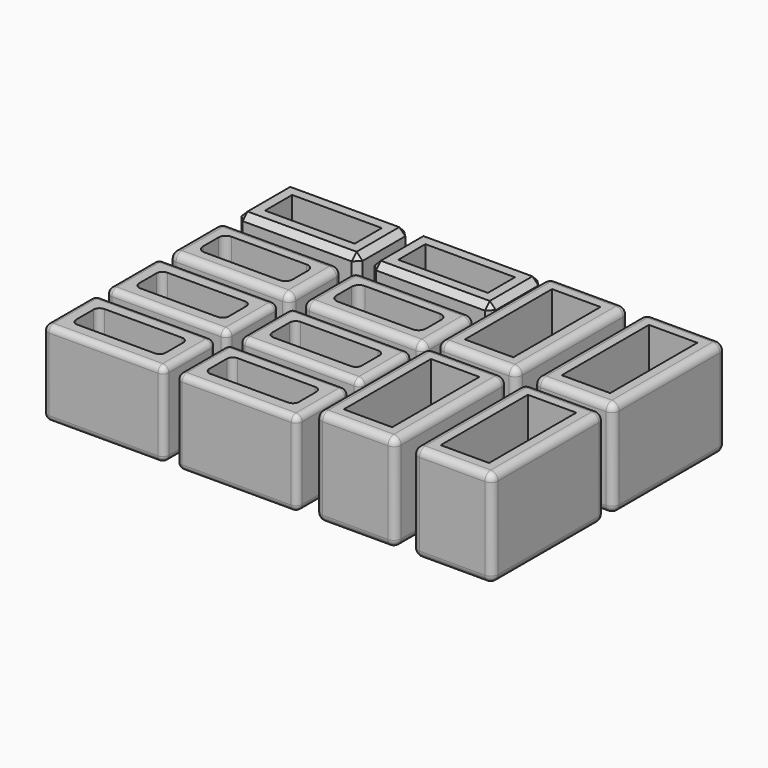
from build123d import *

# Parameters (mm, degrees)
BOX_W           = 10
BOX_H           = 5.4
BOX_DEPTH       = 7
SKETCH_W        = 7.4
SKETCH_H        = 2.8
POCKET_DEPTH    = 7.001
FILLET_R        = 0.5
BOX003_W        = 10
BOX003_H        = 5.4
BOX003_DEPTH    = 7
SKETCH003_W     = 7.4
SKETCH003_H     = 2.8
POCKET003_DEPTH = 7.001
FILLET003_R     = 0.5
BOX004_W        = 10
BOX004_H        = 5.4
BOX004_DEPTH    = 7
SKETCH004_W     = 7.4
SKETCH004_H     = 2.8
POCKET004_DEPTH = 7.001
FILLET004_R     = 0.6
BOX005_W        = 10
BOX005_H        = 5.4
BOX005_DEPTH    = 7
SKETCH005_W     = 7.4
SKETCH005_H     = 2.8
POCKET005_DEPTH = 7.001
FILLET005_R     = 0.6
BOX002_W        = 10
BOX002_H        = 5.4
BOX002_DEPTH    = 7
SKETCH002_W     = 7.4
SKETCH002_H     = 2.8
POCKET002_DEPTH = 7.001
FILLET002_R     = 0.5
BOX001_W        = 10
BOX001_H        = 5.4
BOX001_DEPTH    = 7
SKETCH001_W     = 7.4
SKETCH001_H     = 2.8
POCKET001_DEPTH = 7.001
FILLET001_R     = 0.5
BOX006_W        = 10
BOX006_H        = 5.4
BOX006_DEPTH    = 7
SKETCH006_W     = 7.4
SKETCH006_H     = 2.8
POCKET006_DEPTH = 7.001
CHAMFER_SIZE    = 0.5
BOX007_W        = 10
BOX007_H        = 5.4
BOX007_DEPTH    = 7
SKETCH007_W     = 7.4
SKETCH007_H     = 2.8
POCKET007_DEPTH = 7.001
CHAMFER001_SIZE = 0.5
BOX008_W        = 6.6
BOX008_H        = 11.6
BOX008_DEPTH    = 8
SKETCH008_W     = 4
SKETCH008_H     = 9
POCKET008_DEPTH = 8.001
FILLET006_R     = 0.6
BOX009_W        = 6.6
BOX009_H        = 11.6
BOX009_DEPTH    = 8
SKETCH009_W     = 4
SKETCH009_H     = 9
POCKET009_DEPTH = 8.001
FILLET007_R     = 0.6
BOX010_W        = 6.6
BOX010_H        = 11.6
BOX010_DEPTH    = 8
SKETCH010_W     = 4
SKETCH010_H     = 9
POCKET010_DEPTH = 8.001
FILLET008_R     = 0.6
BOX011_W        = 6.6
BOX011_H        = 11.6
BOX011_DEPTH    = 8
SKETCH011_W     = 4
SKETCH011_H     = 9
POCKET011_DEPTH = 8.001
FILLET009_R     = 0.6


with BuildPart() as fillet000:
    # Box → Box (new body)
    with BuildSketch(Plane.XY):
        with Locations((5, 2.7)):
            Rectangle(BOX_W, BOX_H)
    extrude(amount=BOX_DEPTH)

    # Sketch → Pocket (cut, through all)
    with BuildSketch(Plane.XY):
        with Locations((5, 2.7)):
            Rectangle(SKETCH_W, SKETCH_H)
    extrude(amount=POCKET_DEPTH, mode=Mode.SUBTRACT)

    # Fillet
    fillet_edges = [fillet000.edges().sort_by_distance(p)[0] for p in [
        (0, 0, 3.5),
        (0, 2.7, 7),
        (0, 5.4, 3.5),
        (0, 2.7, 0),
        (5, 0, 0),
        (10, 0, 3.5),
        (5, 0, 7),
        (5, 5.4, 7),
        (10, 2.7, 7),
        (5, 5.4, 0),
        (10, 5.4, 3.5),
        (10, 2.7, 0),
        (8.7, 4.1, 3.5),
        (8.7, 1.3, 3.5),
        (1.3, 4.1, 3.5),
        (1.3, 1.3, 3.5),
    ]]
    fillet(fillet_edges, radius=FILLET_R)


with BuildPart() as fillet003:
    # Box003 → Box003 (new body)
    with BuildSketch(Plane.XY):
        with Locations((5, 2.7)):
            Rectangle(BOX003_W, BOX003_H)
    extrude(amount=BOX003_DEPTH)

    # Sketch003 → Pocket003 (cut, through all)
    with BuildSketch(Plane.XY):
        with Locations((5, 2.7)):
            Rectangle(SKETCH003_W, SKETCH003_H)
    extrude(amount=POCKET003_DEPTH, mode=Mode.SUBTRACT)

    # Fillet003
    fillet003_edges = [fillet003.edges().sort_by_distance(p)[0] for p in [
        (0, 0, 3.5),
        (0, 2.7, 7),
        (0, 5.4, 3.5),
        (0, 2.7, 0),
        (5, 0, 0),
        (10, 0, 3.5),
        (5, 0, 7),
        (5, 5.4, 7),
        (10, 2.7, 7),
        (5, 5.4, 0),
        (10, 5.4, 3.5),
        (10, 2.7, 0),
        (8.7, 4.1, 3.5),
        (8.7, 1.3, 3.5),
        (1.3, 4.1, 3.5),
        (1.3, 1.3, 3.5),
    ]]
    fillet(fillet003_edges, radius=FILLET003_R)


with BuildPart() as fillet003_1:
    # Fillet003 placement: moved
    add(fillet003.part.moved(Location((11, 6.5, 0))))


with BuildPart() as fillet004:
    # Box004 → Box004 (new body)
    with BuildSketch(Plane.XY):
        with Locations((5, 2.7)):
            Rectangle(BOX004_W, BOX004_H)
    extrude(amount=BOX004_DEPTH)

    # Sketch004 → Pocket004 (cut, through all)
    with BuildSketch(Plane.XY):
        with Locations((5, 2.7)):
            Rectangle(SKETCH004_W, SKETCH004_H)
    extrude(amount=POCKET004_DEPTH, mode=Mode.SUBTRACT)

    # Fillet004
    fillet004_edges = [fillet004.edges().sort_by_distance(p)[0] for p in [
        (0, 0, 3.5),
        (0, 2.7, 7),
        (0, 5.4, 3.5),
        (0, 2.7, 0),
        (5, 0, 0),
        (10, 0, 3.5),
        (5, 0, 7),
        (5, 5.4, 7),
        (10, 2.7, 7),
        (5, 5.4, 0),
        (10, 5.4, 3.5),
        (10, 2.7, 0),
        (8.7, 4.1, 3.5),
        (8.7, 1.3, 3.5),
        (1.3, 4.1, 3.5),
        (1.3, 1.3, 3.5),
    ]]
    fillet(fillet004_edges, radius=FILLET004_R)


with BuildPart() as fillet004_1:
    # Fillet004 placement: moved
    add(fillet004.part.moved(Location((0, 13, 0))))


with BuildPart() as fillet005:
    # Box005 → Box005 (new body)
    with BuildSketch(Plane.XY):
        with Locations((5, 2.7)):
            Rectangle(BOX005_W, BOX005_H)
    extrude(amount=BOX005_DEPTH)

    # Sketch005 → Pocket005 (cut, through all)
    with BuildSketch(Plane.XY):
        with Locations((5, 2.7)):
            Rectangle(SKETCH005_W, SKETCH005_H)
    extrude(amount=POCKET005_DEPTH, mode=Mode.SUBTRACT)

    # Fillet005
    fillet005_edges = [fillet005.edges().sort_by_distance(p)[0] for p in [
        (0, 0, 3.5),
        (0, 2.7, 7),
        (0, 5.4, 3.5),
        (0, 2.7, 0),
        (5, 0, 0),
        (10, 0, 3.5),
        (5, 0, 7),
        (5, 5.4, 7),
        (10, 2.7, 7),
        (5, 5.4, 0),
        (10, 5.4, 3.5),
        (10, 2.7, 0),
        (8.7, 4.1, 3.5),
        (8.7, 1.3, 3.5),
        (1.3, 4.1, 3.5),
        (1.3, 1.3, 3.5),
    ]]
    fillet(fillet005_edges, radius=FILLET005_R)


with BuildPart() as fillet005_1:
    # Fillet005 placement: moved
    add(fillet005.part.moved(Location((11, 13, 0))))


with BuildPart() as fillet002:
    # Box002 → Box002 (new body)
    with BuildSketch(Plane.XY):
        with Locations((5, 2.7)):
            Rectangle(BOX002_W, BOX002_H)
    extrude(amount=BOX002_DEPTH)

    # Sketch002 → Pocket002 (cut, through all)
    with BuildSketch(Plane.XY):
        with Locations((5, 2.7)):
            Rectangle(SKETCH002_W, SKETCH002_H)
    extrude(amount=POCKET002_DEPTH, mode=Mode.SUBTRACT)

    # Fillet002
    fillet002_edges = [fillet002.edges().sort_by_distance(p)[0] for p in [
        (0, 0, 3.5),
        (0, 2.7, 7),
        (0, 5.4, 3.5),
        (0, 2.7, 0),
        (5, 0, 0),
        (10, 0, 3.5),
        (5, 0, 7),
        (5, 5.4, 7),
        (10, 2.7, 7),
        (5, 5.4, 0),
        (10, 5.4, 3.5),
        (10, 2.7, 0),
        (8.7, 4.1, 3.5),
        (8.7, 1.3, 3.5),
        (1.3, 4.1, 3.5),
        (1.3, 1.3, 3.5),
    ]]
    fillet(fillet002_edges, radius=FILLET002_R)


with BuildPart() as fillet002_1:
    # Fillet002 placement: moved
    add(fillet002.part.moved(Location((11, 0, 0))))


with BuildPart() as fillet001:
    # Box001 → Box001 (new body)
    with BuildSketch(Plane.XY):
        with Locations((5, 2.7)):
            Rectangle(BOX001_W, BOX001_H)
    extrude(amount=BOX001_DEPTH)

    # Sketch001 → Pocket001 (cut, through all)
    with BuildSketch(Plane.XY):
        with Locations((5, 2.7)):
            Rectangle(SKETCH001_W, SKETCH001_H)
    extrude(amount=POCKET001_DEPTH, mode=Mode.SUBTRACT)

    # Fillet001
    fillet001_edges = [fillet001.edges().sort_by_distance(p)[0] for p in [
        (0, 0, 3.5),
        (0, 2.7, 7),
        (0, 5.4, 3.5),
        (0, 2.7, 0),
        (5, 0, 0),
        (10, 0, 3.5),
        (5, 0, 7),
        (5, 5.4, 7),
        (10, 2.7, 7),
        (5, 5.4, 0),
        (10, 5.4, 3.5),
        (10, 2.7, 0),
        (8.7, 4.1, 3.5),
        (8.7, 1.3, 3.5),
        (1.3, 4.1, 3.5),
        (1.3, 1.3, 3.5),
    ]]
    fillet(fillet001_edges, radius=FILLET001_R)


with BuildPart() as fillet001_1:
    # Fillet001 placement: moved
    add(fillet001.part.moved(Location((0, 6.5, 0))))


with BuildPart() as chamfer_body:
    # Box006 → Box006 (new body)
    with BuildSketch(Plane(origin=(-11, 0, 0), x_dir=(1, 0, 0), z_dir=(0, 0, 1))):
        with Locations((5, 2.7)):
            Rectangle(BOX006_W, BOX006_H)
    extrude(amount=BOX006_DEPTH)


with BuildPart() as chamfer_body_1:
    # BaseFeature006 placement: moved
    add(chamfer_body.part.moved(Location((11, 0, 0))))

    # Sketch006 → Pocket006 (cut, through all)
    with BuildSketch(Plane.XY):
        with Locations((5, 2.7)):
            Rectangle(SKETCH006_W, SKETCH006_H)
    extrude(amount=POCKET006_DEPTH, mode=Mode.SUBTRACT)


with BuildPart() as chamfer_body_2:
    # Body006 placement: moved
    add(chamfer_body_1.part.moved(Location((-11, 0, 0))))

    # Chamfer
    chamfer_edges = [chamfer_body_2.edges().sort_by_distance(p)[0] for p in [
        (-11, 0, 3.5),
        (-11, 2.7, 7),
        (-11, 5.4, 3.5),
        (-11, 2.7, 0),
        (-6, 0, 0),
        (-1, 0, 3.5),
        (-6, 0, 7),
        (-6, 5.4, 7),
        (-1, 2.7, 7),
        (-6, 5.4, 0),
        (-1, 5.4, 3.5),
        (-1, 2.7, 0),
    ]]
    chamfer(chamfer_edges, length=CHAMFER_SIZE)


with BuildPart() as chamfer_body_3:
    # Chamfer placement: moved
    add(chamfer_body_2.part.moved(Location((22, 20, 0))))


with BuildPart() as chamfer001:
    # Box007 → Box007 (new body)
    with BuildSketch(Plane(origin=(-11, 0, 0), x_dir=(1, 0, 0), z_dir=(0, 0, 1))):
        with Locations((5, 2.7)):
            Rectangle(BOX007_W, BOX007_H)
    extrude(amount=BOX007_DEPTH)


with BuildPart() as chamfer001_1:
    # BaseFeature007 placement: moved
    add(chamfer001.part.moved(Location((11, 0, 0))))

    # Sketch007 → Pocket007 (cut, through all)
    with BuildSketch(Plane.XY):
        with Locations((5, 2.7)):
            Rectangle(SKETCH007_W, SKETCH007_H)
    extrude(amount=POCKET007_DEPTH, mode=Mode.SUBTRACT)


with BuildPart() as chamfer001_2:
    # Body007 placement: moved
    add(chamfer001_1.part.moved(Location((-11, 0, 0))))

    # Chamfer001
    chamfer001_edges = [chamfer001_2.edges().sort_by_distance(p)[0] for p in [
        (-11, 0, 3.5),
        (-11, 2.7, 7),
        (-11, 5.4, 3.5),
        (-11, 2.7, 0),
        (-6, 0, 0),
        (-1, 0, 3.5),
        (-6, 0, 7),
        (-6, 5.4, 7),
        (-1, 2.7, 7),
        (-6, 5.4, 0),
        (-1, 5.4, 3.5),
        (-1, 2.7, 0),
    ]]
    chamfer(chamfer001_edges, length=CHAMFER001_SIZE)


with BuildPart() as chamfer001_3:
    # Chamfer001 placement: moved
    add(chamfer001_2.part.moved(Location((11, 20, 0))))


with BuildPart() as fillet006:
    # Box008 → Box008 (new body)
    with BuildSketch(Plane.XY):
        with Locations((3.3, 5.8)):
            Rectangle(BOX008_W, BOX008_H)
    extrude(amount=BOX008_DEPTH)

    # Sketch008 (on Box) → Pocket008 (cut, through all)
    with BuildSketch(Plane.XY):
        with Locations((3.3, 5.8)):
            Rectangle(SKETCH008_W, SKETCH008_H)
    extrude(amount=POCKET008_DEPTH, mode=Mode.SUBTRACT)


with BuildPart() as fillet006_1:
    # Body008 placement: moved
    add(fillet006.part.moved(Location((22.5, 0, 0))))

    # Fillet006
    fillet006_edges = [fillet006_1.edges().sort_by_distance(p)[0] for p in [
        (22.5, 0, 4),
        (22.5, 5.8, 8),
        (22.5, 11.6, 4),
        (22.5, 5.8, 0),
        (25.8, 0, 0),
        (29.1, 0, 4),
        (25.8, 0, 8),
        (25.8, 11.6, 8),
        (29.1, 5.8, 8),
        (25.8, 11.6, 0),
        (29.1, 11.6, 4),
        (29.1, 5.8, 0),
    ]]
    fillet(fillet006_edges, radius=FILLET006_R)


with BuildPart() as fillet007:
    # Box009 → Box009 (new body)
    with BuildSketch(Plane.XY):
        with Locations((3.3, 5.8)):
            Rectangle(BOX009_W, BOX009_H)
    extrude(amount=BOX009_DEPTH)

    # Sketch009 (on Box) → Pocket009 (cut, through all)
    with BuildSketch(Plane.XY):
        with Locations((3.3, 5.8)):
            Rectangle(SKETCH009_W, SKETCH009_H)
    extrude(amount=POCKET009_DEPTH, mode=Mode.SUBTRACT)


with BuildPart() as fillet007_1:
    # Body009 placement: moved
    add(fillet007.part.moved(Location((22.5, 0, 0))))

    # Fillet007
    fillet007_edges = [fillet007_1.edges().sort_by_distance(p)[0] for p in [
        (22.5, 0, 4),
        (22.5, 5.8, 8),
        (22.5, 11.6, 4),
        (22.5, 5.8, 0),
        (25.8, 0, 0),
        (29.1, 0, 4),
        (25.8, 0, 8),
        (25.8, 11.6, 8),
        (29.1, 5.8, 8),
        (25.8, 11.6, 0),
        (29.1, 11.6, 4),
        (29.1, 5.8, 0),
    ]]
    fillet(fillet007_edges, radius=FILLET007_R)


with BuildPart() as fillet007_2:
    # Fillet007 placement: moved
    add(fillet007_1.part.moved(Location((8, 0, 0))))


with BuildPart() as fillet008:
    # Box010 → Box010 (new body)
    with BuildSketch(Plane.XY):
        with Locations((3.3, 5.8)):
            Rectangle(BOX010_W, BOX010_H)
    extrude(amount=BOX010_DEPTH)

    # Sketch010 (on Box) → Pocket010 (cut, through all)
    with BuildSketch(Plane.XY):
        with Locations((3.3, 5.8)):
            Rectangle(SKETCH010_W, SKETCH010_H)
    extrude(amount=POCKET010_DEPTH, mode=Mode.SUBTRACT)


with BuildPart() as fillet008_1:
    # Body010 placement: moved
    add(fillet008.part.moved(Location((22.5, 0, 0))))

    # Fillet008
    fillet008_edges = [fillet008_1.edges().sort_by_distance(p)[0] for p in [
        (22.5, 0, 4),
        (22.5, 5.8, 8),
        (22.5, 11.6, 4),
        (22.5, 5.8, 0),
        (25.8, 0, 0),
        (29.1, 0, 4),
        (25.8, 0, 8),
        (25.8, 11.6, 8),
        (29.1, 5.8, 8),
        (25.8, 11.6, 0),
        (29.1, 11.6, 4),
        (29.1, 5.8, 0),
    ]]
    fillet(fillet008_edges, radius=FILLET008_R)


with BuildPart() as fillet008_2:
    # Fillet008 placement: moved
    add(fillet008_1.part.moved(Location((0, 12.5, 0))))


with BuildPart() as fillet009:
    # Box011 → Box011 (new body)
    with BuildSketch(Plane.XY):
        with Locations((3.3, 5.8)):
            Rectangle(BOX011_W, BOX011_H)
    extrude(amount=BOX011_DEPTH)

    # Sketch011 (on Box) → Pocket011 (cut, through all)
    with BuildSketch(Plane.XY):
        with Locations((3.3, 5.8)):
            Rectangle(SKETCH011_W, SKETCH011_H)
    extrude(amount=POCKET011_DEPTH, mode=Mode.SUBTRACT)


with BuildPart() as fillet009_1:
    # Body011 placement: moved
    add(fillet009.part.moved(Location((22.5, 0, 0))))

    # Fillet009
    fillet009_edges = [fillet009_1.edges().sort_by_distance(p)[0] for p in [
        (22.5, 0, 4),
        (22.5, 5.8, 8),
        (22.5, 11.6, 4),
        (22.5, 5.8, 0),
        (25.8, 0, 0),
        (29.1, 0, 4),
        (25.8, 0, 8),
        (25.8, 11.6, 8),
        (29.1, 5.8, 8),
        (25.8, 11.6, 0),
        (29.1, 11.6, 4),
        (29.1, 5.8, 0),
    ]]
    fillet(fillet009_edges, radius=FILLET009_R)


with BuildPart() as fillet009_2:
    # Fillet009 placement: moved
    add(fillet009_1.part.moved(Location((8, 12.5, 0))))


solid = Compound([fillet000.part, fillet003_1.part, fillet004_1.part, fillet005_1.part, fillet002_1.part, fillet001_1.part, chamfer_body_3.part, chamfer001_3.part, fillet006_1.part, fillet007_2.part, fillet008_2.part, fillet009_2.part])
